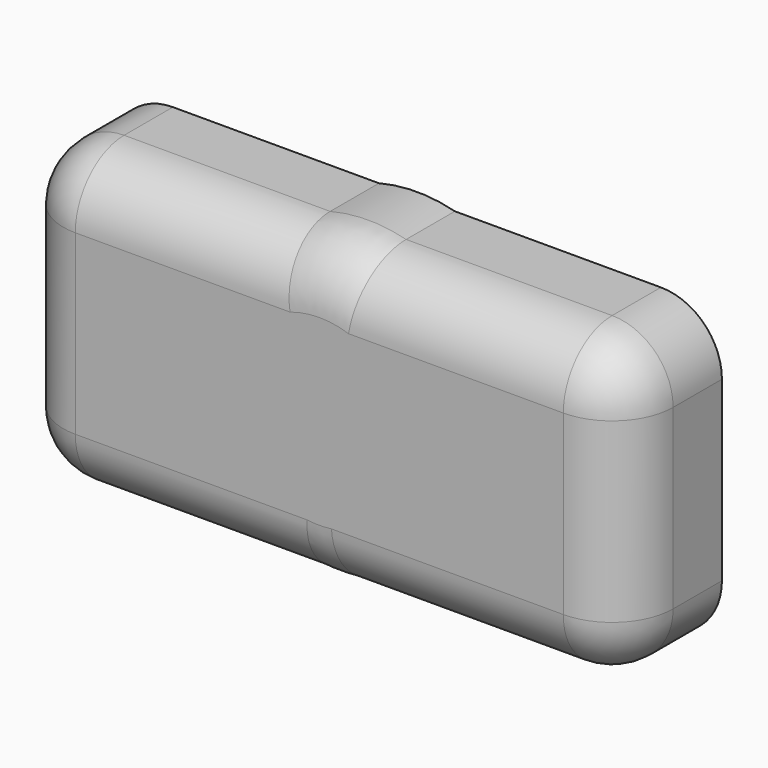
from build123d import *

# Parameters (mm, degrees)
F1_DEPTH = 10.16
F2_DEPTH = 4.2926
F3_R     = 5.08


with BuildPart() as f1:
    # F0 (on Front) → F1 (new body)
    with BuildSketch(Plane.XZ):
        with BuildLine():
            ThreePointArc((-1.3040083906, -12.6328762409), (-9.4021103543, -8.5375828479), (-12.6997273966, -0.0832108883))
            Line((-12.6997273966, -0.0832108883), (-25.3994547932, -0.1664217767))
            Line((-25.3994547932, -0.1664217767), (-25.3994547932, -12.6328762409))
            Line((-25.3994547932, -12.6328762409), (-1.3040083906, -12.6328762409))
        make_face()
        with BuildLine():
            Line((-25.3994547932, -0.1664217767), (-12.6997273966, -0.0832108883))
            ThreePointArc((-12.6997273966, -0.0832108883), (-10.061608872, 7.7494533295), (-3.162150516, 12.3000326875))
            Line((-3.162150516, 12.3000326875), (-25.3994547932, 12.3000326875))
            Line((-25.3994547932, 12.3000326875), (-25.3994547932, -0.1664217767))
        make_face()
        with BuildLine():
            Line((25.4005452068, 12.3000326875), (3.162150516, 12.3000326875))
            ThreePointArc((3.162150516, 12.3000326875), (10.0361673848, 7.7823739452), (12.7, 0))
            ThreePointArc((12.7, 0), (9.4300293361, -8.5067353738), (1.3040083906, -12.6328762409))
            Line((1.3040083906, -12.6328762409), (25.4005452068, -12.6328762409))
            Line((25.4005452068, -12.6328762409), (25.4005452068, 12.3000326875))
        make_face()
        with BuildLine():
            ThreePointArc((-3.162150516, 12.3000326875), (-10.061608872, 7.7494533295), (-12.6997273966, -0.0832108883))
            ThreePointArc((-12.6997273966, -0.0832108883), (-9.4021103543, -8.5375828479), (-1.3040083906, -12.6328762409))
            Line((-1.3040083906, -12.6328762409), (1.3040083906, -12.6328762409))
            ThreePointArc((1.3040083906, -12.6328762409), (9.4300293361, -8.5067353738), (12.7, 0))
            ThreePointArc((12.7, 0), (10.0361673848, 7.7823739452), (3.162150516, 12.3000326875))
            Line((3.162150516, 12.3000326875), (-3.162150516, 12.3000326875))
        make_face()
        Polygon((-2.7865785047, 5.9819127574), (3.7871991587, 5.4042041534), (6.5737776635, -0.5777086039), (2.7865785047, -5.9819127574), (-3.7871991587, -5.4042041534), (-6.2854766309, -0.0411835686), (-6.5737776635, 0.5777086039), align=None, mode=Mode.SUBTRACT)
        Polygon((6.5737776635, -0.5777086039), (3.7871991587, 5.4042041534), (-2.7865785047, 5.9819127574), (-6.5737776635, 0.5777086039), (-6.2854766309, -0.0411835686), (-3.7871991587, -5.4042041534), (2.7865785047, -5.9819127574), align=None)
        with BuildLine():
            Line((1.3040083906, -12.6328762409), (-1.3040083906, -12.6328762409))
            ThreePointArc((-1.3040083906, -12.6328762409), (0, -12.7), (1.3040083906, -12.6328762409))
        make_face()
        with BuildLine():
            ThreePointArc((3.162150516, 12.3000326875), (0, 12.7), (-3.162150516, 12.3000326875))
            Line((-3.162150516, 12.3000326875), (3.162150516, 12.3000326875))
        make_face()
    extrude(amount=F1_DEPTH)

    # F0 (on Front) → F2 (cut)
    with BuildSketch(Plane.XZ):
        Polygon((6.5737776635, -0.5777086039), (3.7871991587, 5.4042041534), (-2.7865785047, 5.9819127574), (-6.5737776635, 0.5777086039), (-6.2854766309, -0.0411835686), (-3.7871991587, -5.4042041534), (2.7865785047, -5.9819127574), align=None)
    extrude(amount=F2_DEPTH, mode=Mode.SUBTRACT)

    # F3
    f3_edges = [f1.edges().sort_by_distance(p)[0] for p in [
        (-25.399455, -5.08, 12.300033),
        (25.400545, -5.08, 12.300033),
        (25.400545, -5.08, -12.632876),
        (13.352277, -10.16, -12.632876),
        (-13.351732, -10.16, -12.632876),
        (0, -10.16, -12.7),
        (25.400545, -10.16, -0.166422),
        (14.281348, -10.16, 12.300033),
        (0, -10.16, 12.7),
        (-14.280803, -10.16, 12.300033),
        (-25.399455, -10.16, -0.166422),
        (-25.399455, -5.08, -12.632876),
    ]]
    fillet(f3_edges, radius=F3_R)


solid = f1.part
